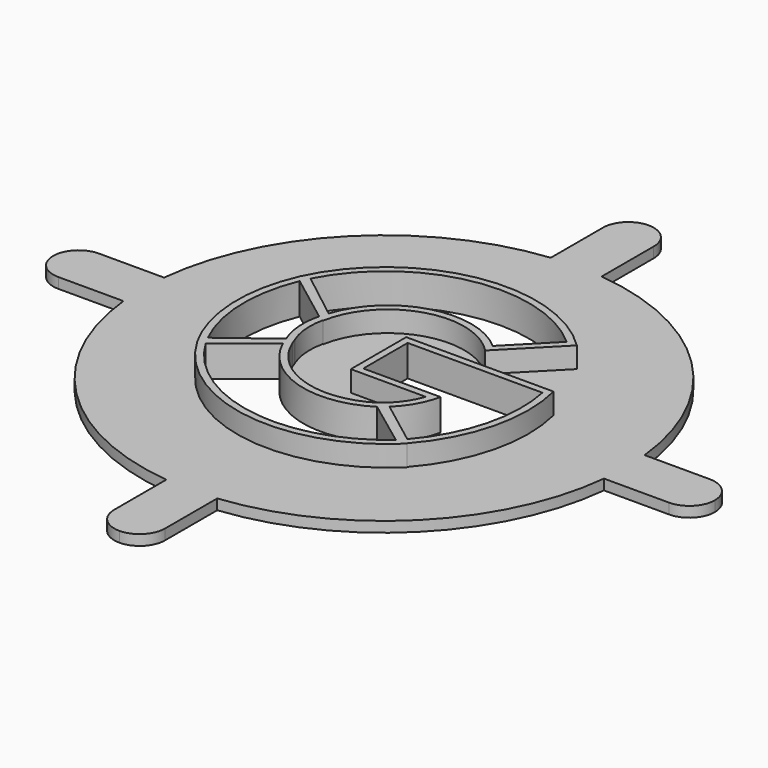
from build123d import *

# Parameters (mm, degrees)
F1_DEPTH = 3
F3_DEPTH = 25
F5_DEPTH = 6
F6_SCALE = 0.5


with BuildPart() as f1:
    # F0 (on Top) → F1 (new body)
    with BuildSketch(Plane.XY):
        with BuildLine():
            ThreePointArc((69.1465082783, -7.3148026297), (69.4358131239, -3.6624855503), (69.532337402, 0))
            ThreePointArc((69.532337402, 0), (69.4358131239, 3.6624855503), (69.1465082783, 7.3148026297))
            ThreePointArc((69.1465082783, 7.3148026297), (49.1667872887, 49.1667872887), (7.3148026297, 69.1465082783))
            ThreePointArc((7.3148026297, 69.1465082783), (0, 69.532337402), (-7.3148026297, 69.1465082783))
            ThreePointArc((-7.3148026297, 69.1465082783), (-49.1667872887, 49.1667872887), (-69.1465082783, 7.3148026297))
            ThreePointArc((-69.1465082783, 7.3148026297), (-69.532337402, 0), (-69.1465082783, -7.3148026297))
            ThreePointArc((-69.1465082783, -7.3148026297), (-49.1667872887, -49.1667872887), (-7.3148026297, -69.1465082783))
            ThreePointArc((-7.3148026297, -69.1465082783), (0, -69.532337402), (7.3148026297, -69.1465082783))
            ThreePointArc((7.3148026297, -69.1465082783), (49.1667872887, -49.1667872887), (69.1465082783, -7.3148026297))
        make_face()
        with BuildLine():
            ThreePointArc((69.1465082783, 7.3148026297), (69.4358131239, 3.6624855503), (69.532337402, 0))
            ThreePointArc((69.532337402, 0), (69.4358131239, -3.6624855503), (69.1465082783, -7.3148026297))
            Line((69.1465082783, -7.3148026297), (87.8831749798, -7.3148026297))
            ThreePointArc((87.8831749798, -7.3148026297), (93.0555215223, -5.1723465425), (95.1979776095, 0))
            ThreePointArc((95.1979776095, 0), (93.0555215223, 5.1723465425), (87.8831749798, 7.3148026297))
            Line((87.8831749798, 7.3148026297), (69.1465082783, 7.3148026297))
        make_face()
        with BuildLine():
            ThreePointArc((-7.3148026297, 69.1465082783), (0, 69.532337402), (7.3148026297, 69.1465082783))
            Line((7.3148026297, 69.1465082783), (7.3148026297, 87.8831749798))
            ThreePointArc((7.3148026297, 87.8831749798), (5.1723465425, 93.0555215223), (0, 95.1979776095))
            ThreePointArc((0, 95.1979776095), (-5.1723465425, 93.0555215223), (-7.3148026297, 87.8831749798))
            Line((-7.3148026297, 87.8831749798), (-7.3148026297, 69.1465082783))
        make_face()
        with BuildLine():
            Line((7.3148026297, -87.8831749798), (7.3148026297, -69.1465082783))
            ThreePointArc((7.3148026297, -69.1465082783), (0, -69.532337402), (-7.3148026297, -69.1465082783))
            Line((-7.3148026297, -69.1465082783), (-7.3148026297, -87.8831749798))
            ThreePointArc((-7.3148026297, -87.8831749798), (-5.1723465425, -93.0555215223), (0, -95.1979776095))
            ThreePointArc((0, -95.1979776095), (5.1723465425, -93.0555215223), (7.3148026297, -87.8831749798))
        make_face()
        with BuildLine():
            ThreePointArc((-69.1465082783, -7.3148026297), (-69.532337402, 0), (-69.1465082783, 7.3148026297))
            Line((-69.1465082783, 7.3148026297), (-87.8831749798, 7.3148026297))
            ThreePointArc((-87.8831749798, 7.3148026297), (-93.0555215223, 5.1723465425), (-95.1979776095, 0))
            ThreePointArc((-95.1979776095, 0), (-93.0555215223, -5.1723465425), (-87.8831749798, -7.3148026297))
            Line((-87.8831749798, -7.3148026297), (-69.1465082783, -7.3148026297))
        make_face()
    extrude(amount=F1_DEPTH)

    # F2 (on face) → F3 (cut)
    with BuildSketch(Plane.XY.offset(3)):
        with BuildLine():
            Line((16.5183525532, 18.4991825372), (28.2446611673, 30.4242391139))
            ThreePointArc((28.2446611673, 30.4242391139), (-6.7759205764, 40.1934215699), (-35.9519049525, 18.4991825372))
            Line((-35.9519049525, 18.4991825372), (-22.1387110651, 7.7666295692))
            ThreePointArc((-22.1387110651, 7.7666295692), (-5.7075669458, 23.5688666851), (16.5183525532, 18.4991825372))
        make_face()
        with BuildLine():
            Line((0.6598568289, -8.2568302751), (22.8720060756, -8.2568302751))
            ThreePointArc((22.8720060756, -8.2568302751), (20.6804420753, -14.1282137838), (16.8557025786, -19.0928351043))
            Line((16.8557025786, -19.0928351043), (29.8348077707, -28.9163588455))
            ThreePointArc((29.8348077707, -28.9163588455), (30.1844763243, -28.5097115536), (30.5290018042, -28.0986977933))
            ThreePointArc((30.5290018042, -28.0986977933), (39.0530735531, -11.2241482879), (39.4424125552, 7.6771383174))
            Line((39.4424125552, 7.6771383174), (0.6598568289, 7.6771383174))
            Line((0.6598568289, 7.6771383174), (0.6598568289, -8.2568302751))
        make_face()
        with BuildLine():
            ThreePointArc((-21.936269477, -7.7693820931), (-23.5046233838, -1.3017309627), (-22.9253014498, 5.3280979354))
            Line((-22.9253014498, 5.3280979354), (-37.0819843029, 16.0259236856))
            ThreePointArc((-37.0819843029, 16.0259236856), (-40.272638067, -1.3002890528), (-35.9932072461, -18.3901805431))
            Line((-35.9932072461, -18.3901805431), (-21.936269477, -7.7693820931))
        make_face()
        with BuildLine():
            Line((-21.0756994649, -10.0013930179), (-34.6712230282, -20.7951781903))
            ThreePointArc((-34.6712230282, -20.7951781903), (-5.653058159, -40.5104727569), (28.0658900738, -30.8265034109))
            Line((28.0658900738, -30.8265034109), (14.7211225703, -20.8851005882))
            ThreePointArc((14.7211225703, -20.8851005882), (-5.6704095402, -23.6431925936), (-21.0756994649, -10.0013930179))
        make_face()
    extrude(amount=-F3_DEPTH, mode=Mode.SUBTRACT)

    # F4 (on face) → F5 (join)
    with BuildSketch(Plane.XY.offset(3)):
        with BuildLine():
            Line((16.5639953805, 15.693101771), (31.1080969783, 30.4837098063))
            ThreePointArc((31.1080969783, 30.4837098063), (-6.9286387342, 42.198718121), (-38.464639275, 17.9187808608))
            Line((-38.464639275, 17.9187808608), (-38.4463550975, 17.9045744503))
            Line((-38.4463550975, 17.9045744503), (-21.0883413572, 4.4177731062))
            Line((-21.0883413572, 4.4177731062), (-20.9411330852, 4.303395462))
            ThreePointArc((-20.9411330852, 4.303395462), (-5.6797522011, 21.4943554028), (16.5639953805, 15.693101771))
        make_face()
        with BuildLine():
            ThreePointArc((-35.9519049525, 18.4991825372), (-6.7759205764, 40.1934215699), (28.2446611673, 30.4242391139))
            Line((28.2446611673, 30.4242391139), (16.5183525532, 18.4991825372))
            ThreePointArc((16.5183525532, 18.4991825372), (-5.7075669458, 23.5688666851), (-22.1387110651, 7.7666295692))
            Line((-22.1387110651, 7.7666295692), (-35.9519049525, 18.4991825372))
        make_face(mode=Mode.SUBTRACT)
        with BuildLine():
            Line((-19.5500680933, -8.473156722), (-36.6423058309, -21.3872931472))
            ThreePointArc((-36.6423058309, -21.3872931472), (-4.9960373644, -42.6296318895), (31.1903517483, -30.6601496082))
            Line((31.1903517483, -30.6601496082), (31.0539440179, -30.5585304384))
            ThreePointArc((31.0539440179, -30.5585304384), (30.573900942, -31.0902940329), (30.0853848234, -31.6142843735))
            Line((30.0853848234, -31.6142843735), (13.66533039, -19.1864018522))
            ThreePointArc((13.66533039, -19.1864018522), (-5.4535220983, -21.615371302), (-19.5500680933, -8.473156722))
        make_face()
        with BuildLine():
            ThreePointArc((-21.0756994649, -10.0013930179), (-5.6704095402, -23.6431925936), (14.7211225703, -20.8851005882))
            Line((14.7211225703, -20.8851005882), (28.0658900738, -30.8265034109))
            ThreePointArc((28.0658900738, -30.8265034109), (-5.653058159, -40.5104727569), (-34.6712230282, -20.7951781903))
            Line((-34.6712230282, -20.7951781903), (-21.0756994649, -10.0013930179))
        make_face(mode=Mode.SUBTRACT)
        with BuildLine():
            Line((-21.0883413572, 4.4177731062), (-38.4463550975, 17.9045744503))
            ThreePointArc((-38.4463550975, 17.9045744503), (-42.2485928064, -1.9617758618), (-36.6614406796, -21.4017505898))
            Line((-36.6614406796, -21.4017505898), (-36.6423058309, -21.3872931472))
            ThreePointArc((-36.6423058309, -21.3872931472), (-36.9523718103, -20.8420801294), (-37.2545148762, -20.2924368686))
            Line((-37.2545148762, -20.2924368686), (-20.1947009372, -6.7482753745))
            ThreePointArc((-20.1947009372, -6.7482753745), (-21.5038361154, -1.2342638661), (-21.0883413572, 4.4177731062))
        make_face()
        with BuildLine():
            Line((-21.936269477, -7.7693820931), (-35.9932072461, -18.3901805431))
            ThreePointArc((-35.9932072461, -18.3901805431), (-40.272638067, -1.3002890528), (-37.0819843029, 16.0259236856))
            Line((-37.0819843029, 16.0259236856), (-22.9253014498, 5.3280979354))
            ThreePointArc((-22.9253014498, 5.3280979354), (-23.5046233838, -1.3017309627), (-21.936269477, -7.7693820931))
        make_face(mode=Mode.SUBTRACT)
        with BuildLine():
            ThreePointArc((-20.0629168504, -7.0638754616), (-20.1295357126, -6.9063789134), (-20.1947009372, -6.7482753745))
            Line((-20.1947009372, -6.7482753745), (-37.2545148762, -20.2924368686))
            ThreePointArc((-37.2545148762, -20.2924368686), (-36.9523718103, -20.8420801294), (-36.6423058309, -21.3872931472))
            Line((-36.6423058309, -21.3872931472), (-19.5500680933, -8.473156722))
            ThreePointArc((-19.5500680933, -8.473156722), (-19.8181327724, -7.7727520906), (-20.0629168504, -7.0638754616))
        make_face()
        with BuildLine():
            ThreePointArc((14.778628294, -18.4339677859), (14.2275475814, -18.8184235598), (13.66533039, -19.1864018522))
            Line((13.66533039, -19.1864018522), (30.0853848234, -31.6142843735))
            ThreePointArc((30.0853848234, -31.6142843735), (30.573900942, -31.0902940329), (31.0539440179, -30.5585304384))
            Line((31.0539440179, -30.5585304384), (14.778628294, -18.4339677859))
        make_face()
        with BuildLine():
            Line((13.660088258, -19.1824342282), (13.66533039, -19.1864018522))
            ThreePointArc((13.66533039, -19.1864018522), (14.2275475814, -18.8184235598), (14.778628294, -18.4339677859))
            Line((14.778628294, -18.4339677859), (31.0539440179, -30.5585304384))
            ThreePointArc((31.0539440179, -30.5585304384), (41.0029367993, -11.6707107453), (41.0420586495, 9.6771383174))
            Line((41.0420586495, 9.6771383174), (-1.3401431711, 9.6771383174))
            Line((-1.3401431711, 9.6771383174), (-1.3401431711, -10.2568302751))
            Line((-1.3401431711, -10.2568302751), (20.238117635, -10.2568302751))
            ThreePointArc((20.238117635, -10.2568302751), (17.6137295695, -15.2094515931), (13.660088258, -19.1824342282))
        make_face()
        with BuildLine():
            Line((0.6598568289, -8.2568302751), (0.6598568289, 7.6771383174))
            Line((0.6598568289, 7.6771383174), (39.4424125552, 7.6771383174))
            ThreePointArc((39.4424125552, 7.6771383174), (38.9201464557, -11.7437255239), (29.8348077707, -28.9163588455))
            Line((29.8348077707, -28.9163588455), (16.8557025786, -19.0928351043))
            ThreePointArc((16.8557025786, -19.0928351043), (20.6804420753, -14.1282137838), (22.8720060756, -8.2568302751))
            Line((22.8720060756, -8.2568302751), (0.6598568289, -8.2568302751))
        make_face(mode=Mode.SUBTRACT)
    extrude(amount=F5_DEPTH)


with BuildPart() as f1_1:
    # F6: moved
    add(f1.part.scale(F6_SCALE))


solid = f1_1.part
